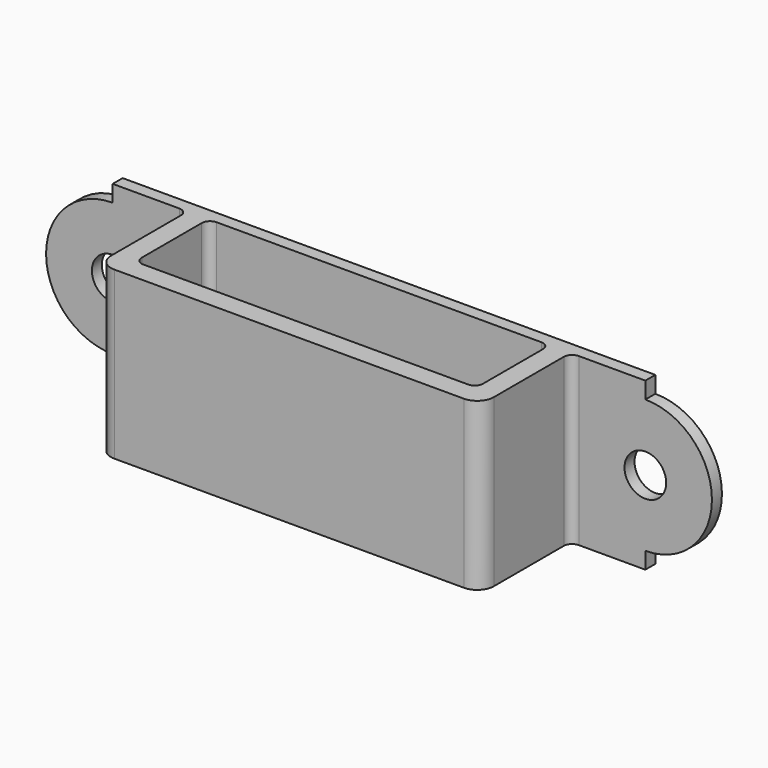
from build123d import *

# Parameters (mm, degrees)
F0_W     = 46
F0_H     = 10
F1_DEPTH = 1.5
F2_DEPTH = 15
F3_W     = 41
F3_H     = 11
F4_DEPTH = 12.5
F5_D     = 5
F6_R     = 1
F7_R     = 2


with BuildPart() as f1:
    # F0 (on Front) → F1 (new body)
    with BuildSketch(Plane.XZ):
        with Locations((0, -5)):
            Rectangle(F0_W, F0_H)
        with Locations((0, 5)):
            Rectangle(F0_W, F0_H)
        Polygon((32, 10), (23, 10), (23, 0), (23, -10), (32, -10), (32, -8), (32, 8), align=None)
        with BuildLine():
            ThreePointArc((32, -8), (40, 0), (32, 8))
            Line((32, 8), (32, -8))
        make_face()
        Polygon((-23, 10), (-32, 10), (-32, 8), (-32, -8), (-32, -10), (-23, -10), (-23, 0), align=None)
        with BuildLine():
            Line((-32, -8), (-32, 8))
            ThreePointArc((-32, 8), (-40, 0), (-32, -8))
        make_face()
    extrude(amount=F1_DEPTH)

    # F0 (on Front) → F2 (join)
    with BuildSketch(Plane.XZ):
        with Locations((0, -5)):
            Rectangle(F0_W, F0_H)
        with Locations((0, 5)):
            Rectangle(F0_W, F0_H)
    extrude(amount=F2_DEPTH)

    # F3 (on Top) → F4 (cut, symmetric)
    with BuildSketch(Plane.XY):
        with Locations((0, -7)):
            Rectangle(F3_W, F3_H)
    extrude(amount=F4_DEPTH, both=True, mode=Mode.SUBTRACT)

    # F5 (through all)
    with Locations(Plane(origin=(0, 0, 0), x_dir=(1, 0, 0), z_dir=(0, 1, 0))):
        with Locations((-32, 0), (32, 0)):
            Hole(F5_D / 2)

    # F6
    f6_edges = [f1.edges().sort_by_distance(p)[0] for p in [
        (-23, -1.5, 0),
        (-20.5, -1.5, 0),
        (23, -1.5, 0),
        (20.5, -1.5, 0),
        (-20.5, -12.5, 0),
        (20.5, -12.5, 0),
    ]]
    fillet(f6_edges, radius=F6_R)

    # F7
    f7_edges = [f1.edges().sort_by_distance(p)[0] for p in [
        (-23, -15, 0),
        (23, -15, 0),
    ]]
    fillet(f7_edges, radius=F7_R)


solid = f1.part
